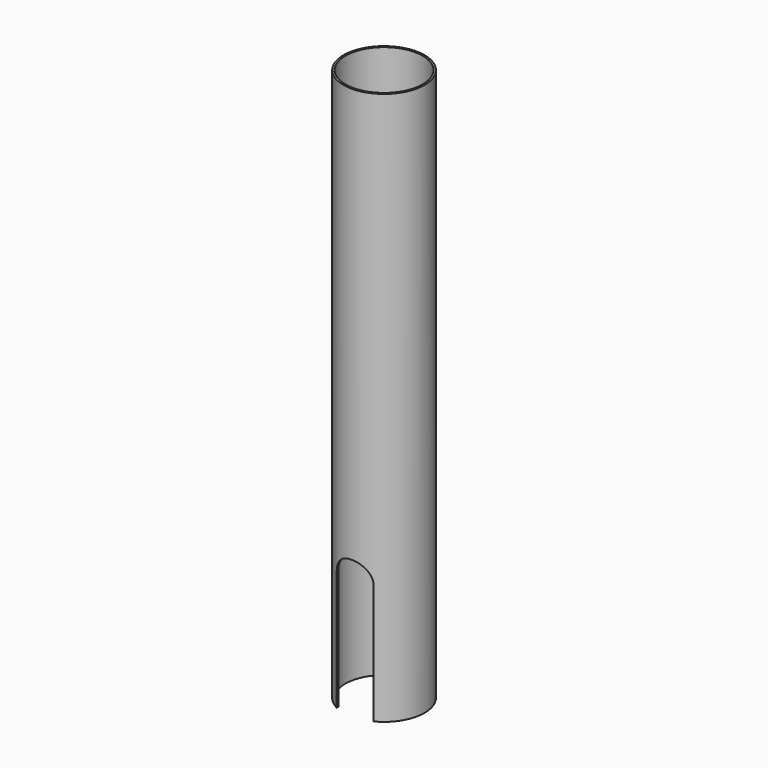
from build123d import *

# Parameters (mm, degrees)
F0_R     = 22
F0_R_2   = 21
F1_DEPTH = 300
F3_DEPTH = 50


with BuildPart() as f1:
    # F0 (on Top) → F1 (new body)
    with BuildSketch(Plane.XY):
        Circle(F0_R)
        Circle(F0_R_2, mode=Mode.SUBTRACT)
    extrude(amount=F1_DEPTH)

    # F2 (on Front) → F3 (cut, symmetric)
    with BuildSketch(Plane.XZ):
        with BuildLine():
            Line((-10, 65), (-10, 0))
            Line((-10, 0), (10, 0))
            Line((10, 0), (10, 65))
            ThreePointArc((10, 65), (0, 55), (-10, 65))
        make_face()
        with BuildLine():
            ThreePointArc((10, 65), (0, 75), (-10, 65))
            Line((-10, 65), (10, 65))
        make_face()
        with BuildLine():
            Line((10, 65), (-10, 65))
            ThreePointArc((-10, 65), (0, 55), (10, 65))
        make_face()
    extrude(amount=F3_DEPTH, both=True, mode=Mode.SUBTRACT)


solid = f1.part
